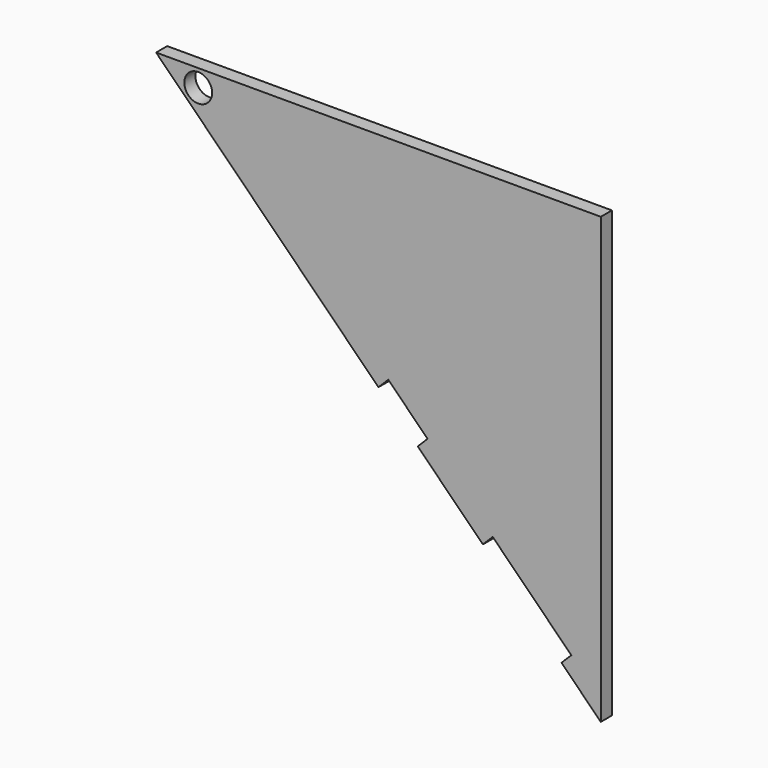
from build123d import *

# Parameters (mm, degrees)
F0_R     = 3.175
F1_DEPTH = 3.175


with BuildPart() as f1:
    # F0 (on Front) → F1 (new body)
    with BuildSketch(Plane.XZ):
        Polygon((38.6696, 0), (-62.9304, 0), (-12.1304, -50.8), (-9.885336, -48.554936), (-0.90508, -57.535192), (-3.150144, -59.780256), (11.728832, -74.659232), (13.973896, -72.414168), (31.934408, -90.37468), (29.689344, -92.619744), (38.6696, -101.6), align=None)
        with Locations((-53.305391, -3.96395)):
            Circle(F0_R, mode=Mode.SUBTRACT)
    extrude(amount=F1_DEPTH)


solid = f1.part
